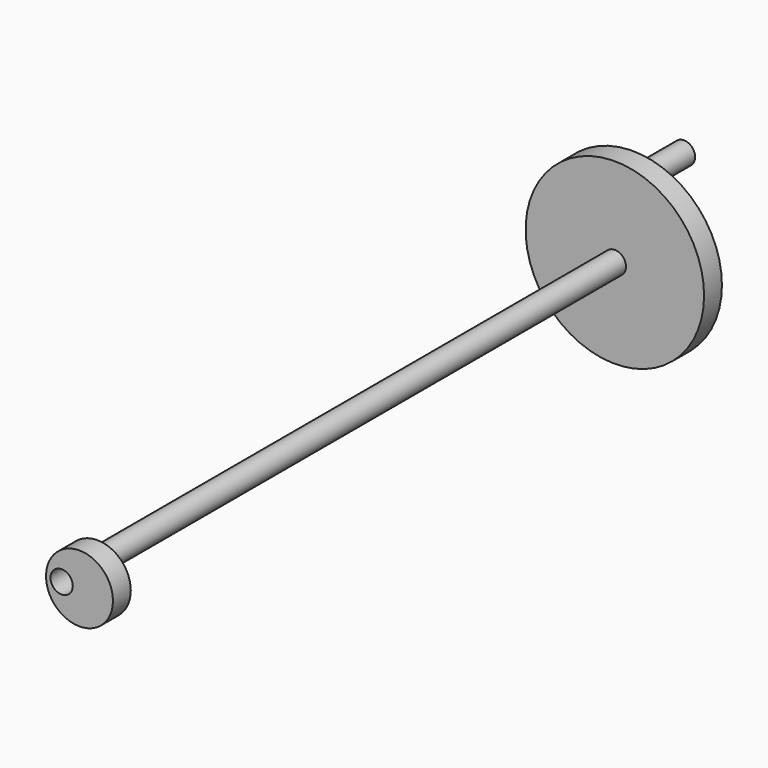
from build123d import *

# Parameters (mm, degrees)
F0_R      = 6.35
F1_DEPTH  = 393.7
F0_R_2    = 50.8
F2_DEPTH  = 12.7
F3_R      = 6.35
F4_DEPTH  = 88.9
F7_R      = 19.05
F8_DEPTH  = 12.7
F9_R      = 6.35
F10_DEPTH = 12.7


with BuildPart() as f1:
    # F0 (on Front) → F1 (new body)
    with BuildSketch(Plane.XZ):
        Circle(F0_R)
    extrude(amount=F1_DEPTH)

    # F0 (on Front) → F2 (join)
    with BuildSketch(Plane.XZ):
        Circle(F0_R_2)
        Circle(F0_R, mode=Mode.SUBTRACT)
    extrude(amount=F2_DEPTH)

    # F3 (on face) → F4 (join)
    with BuildSketch(Plane.XZ):
        with Locations((-41.91, 0)):
            Circle(F3_R)
    extrude(amount=-F4_DEPTH)


with BuildPart() as f8:
    # F7 (on face) → F8 (new body)
    with BuildSketch(Plane.XZ.offset(393.7)):
        with Locations((10.16, 0)):
            Circle(F7_R)
    extrude(amount=F8_DEPTH)

    # F9 (on face) → F10 (cut)
    with BuildSketch(Plane.XZ.offset(406.4)):
        Circle(F9_R)
    extrude(amount=-F10_DEPTH, mode=Mode.SUBTRACT)


solid = Compound([f1.part, f8.part])
